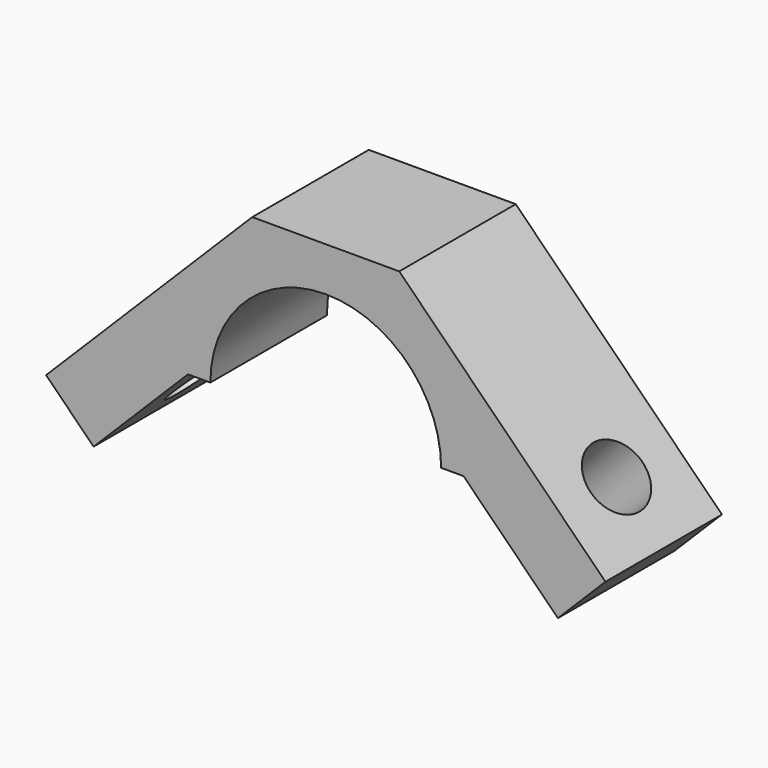
from build123d import *

# Parameters (mm, degrees)
F1_DEPTH = 6.5
F2_R     = 1.45
F3_DEPTH = 25
F4_R     = 1.45
F5_DEPTH = 25


with BuildPart() as f1:
    # F0 (on Front) → F1 (new body)
    with BuildSketch(Plane.XZ):
        with BuildLine():
            ThreePointArc((-5.15, 0), (0, 5.15), (5.15, 0))
            Line((5.15, 0), (6.15, 0))
            Line((6.15, 0), (10.362235, -4.212235))
            Line((10.362235, -4.212235), (12.483555, -2.090915))
            Line((12.483555, -2.090915), (3.280338, 7.112302))
            Line((3.280338, 7.112302), (-3.280338, 7.112302))
            Line((-3.280338, 7.112302), (-12.483555, -2.090915))
            Line((-12.483555, -2.090915), (-10.362235, -4.212235))
            Line((-10.362235, -4.212235), (-6.15, 0))
            Line((-6.15, 0), (-5.15, 0))
        make_face()
    extrude(amount=F1_DEPTH)

    # F2 (on face) → F3 (cut)
    with BuildSketch(Plane(origin=(-5.19632, 0, 5.19632), x_dir=(0, -1, 0), z_dir=(-0.707107, 0, 0.707107))):
        with Locations((3.25, -7.327207)):
            Circle(F2_R)
    extrude(amount=-F3_DEPTH, mode=Mode.SUBTRACT)

    # F4 (on face) → F5 (cut)
    with BuildSketch(Plane(origin=(5.19632, 0, 5.19632), x_dir=(0, 1, 0), z_dir=(0.707107, 0, 0.707107))):
        with Locations((-3.25, -7.327207)):
            Circle(F4_R)
    extrude(amount=-F5_DEPTH, mode=Mode.SUBTRACT)


solid = f1.part
